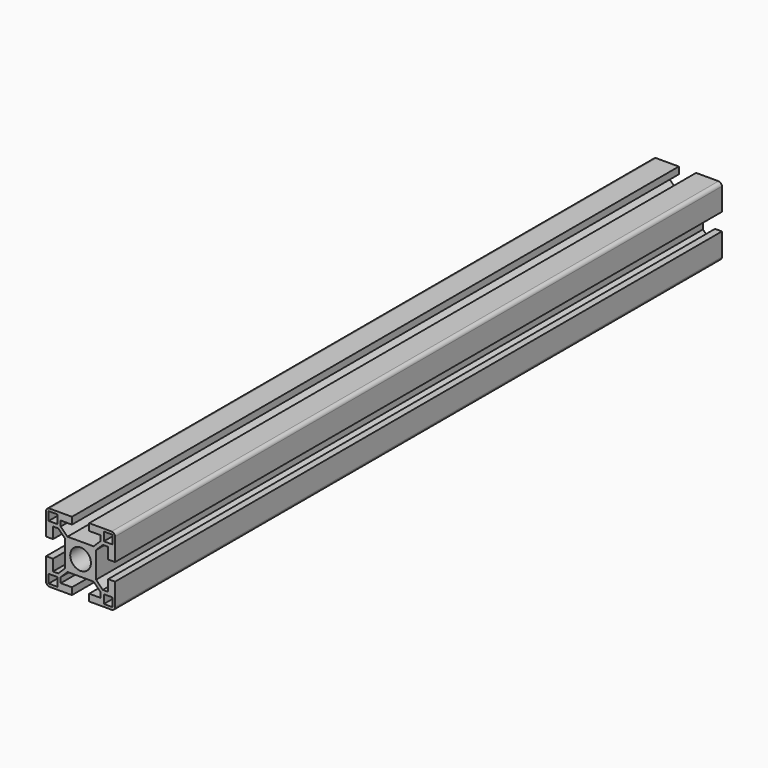
from build123d import *

# Parameters (mm, degrees)
F0_W     = 5
F0_H     = 5
F0_R     = 6
F1_DEPTH = 440


with BuildPart() as f1:
    # F0 (on Front) → F1 (new body)
    with BuildSketch(Plane.XZ):
        with BuildLine():
            Line((5, -20), (18, -20))
            ThreePointArc((18, -20), (19.414214, -19.414214), (20, -18))
            Line((20, -18), (20, -5))
            Line((20, -5), (16, -5))
            Line((16, -5), (16, -11.5))
            Line((16, -11.5), (12.914214, -11.5))
            Line((12.914214, -11.5), (9, -7.585786))
            Line((9, -7.585786), (9, 0))
            Line((9, 0), (9, 7.585786))
            Line((9, 7.585786), (12.914214, 11.5))
            Line((12.914214, 11.5), (16, 11.5))
            Line((16, 11.5), (16, 5))
            Line((16, 5), (20, 5))
            Line((20, 5), (20, 18))
            ThreePointArc((20, 18), (19.414214, 19.414214), (18, 20))
            Line((18, 20), (5, 20))
            Line((5, 20), (5, 16))
            Line((5, 16), (11.5, 16))
            Line((11.5, 16), (11.5, 12.914214))
            Line((11.5, 12.914214), (7.585786, 9))
            Line((7.585786, 9), (0, 9))
            Line((0, 9), (-7.585786, 9))
            Line((-7.585786, 9), (-11.5, 12.914214))
            Line((-11.5, 12.914214), (-11.5, 16))
            Line((-11.5, 16), (-5, 16))
            Line((-5, 16), (-5, 20))
            Line((-5, 20), (-18, 20))
            ThreePointArc((-18, 20), (-19.414214, 19.414214), (-20, 18))
            Line((-20, 18), (-20, 5))
            Line((-20, 5), (-16, 5))
            Line((-16, 5), (-16, 11.5))
            Line((-16, 11.5), (-12.914214, 11.5))
            Line((-12.914214, 11.5), (-9, 7.585786))
            Line((-9, 7.585786), (-9, 0))
            Line((-9, 0), (-9, -7.585786))
            Line((-9, -7.585786), (-12.914214, -11.5))
            Line((-12.914214, -11.5), (-16, -11.5))
            Line((-16, -11.5), (-16, -5))
            Line((-16, -5), (-20, -5))
            Line((-20, -5), (-20, -18))
            ThreePointArc((-20, -18), (-19.414214, -19.414214), (-18, -20))
            Line((-18, -20), (-5, -20))
            Line((-5, -20), (-5, -16))
            Line((-5, -16), (-11.5, -16))
            Line((-11.5, -16), (-11.5, -12.914214))
            Line((-11.5, -12.914214), (-7.585786, -9))
            Line((-7.585786, -9), (0, -9))
            Line((0, -9), (7.585786, -9))
            Line((7.585786, -9), (11.5, -12.914214))
            Line((11.5, -12.914214), (11.5, -16))
            Line((11.5, -16), (5, -16))
            Line((5, -16), (5, -20))
        make_face()
        with Locations((-16, -16)):
            Rectangle(F0_W, F0_H, mode=Mode.SUBTRACT)
        with Locations((16, -16)):
            Rectangle(F0_W, F0_H, mode=Mode.SUBTRACT)
        with Locations((-16, 16)):
            Rectangle(F0_W, F0_H, mode=Mode.SUBTRACT)
        Circle(F0_R, mode=Mode.SUBTRACT)
        with Locations((16, 16)):
            Rectangle(F0_W, F0_H, mode=Mode.SUBTRACT)
    extrude(amount=F1_DEPTH)


solid = f1.part
